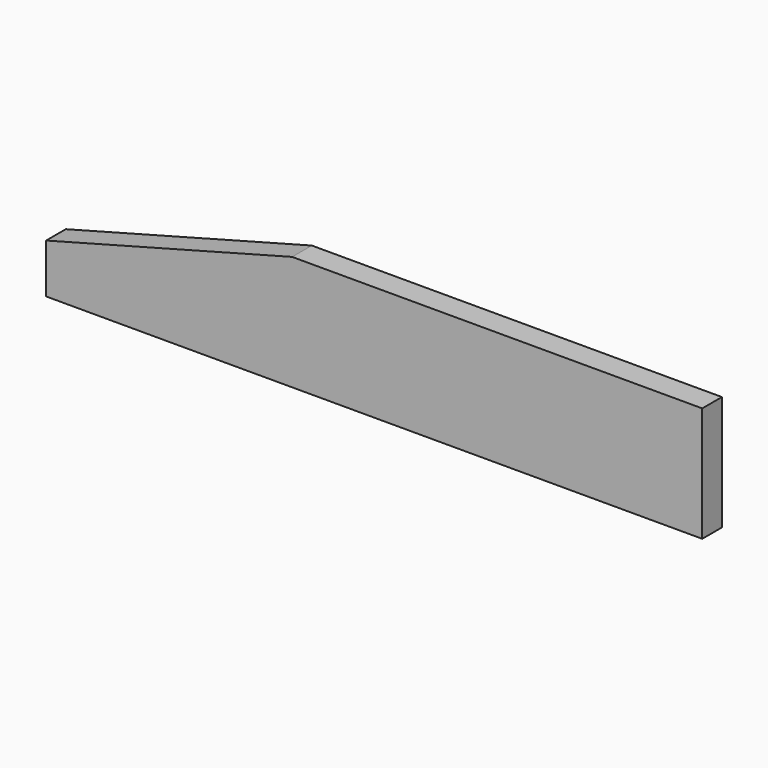
from build123d import *

# Parameters (mm, degrees)
F1_DEPTH = 19.05
F3_DEPTH = 25.4


with BuildPart() as f1:
    # F0 (on Front) → F1 (new body)
    with BuildSketch(Plane.XZ):
        Polygon((0, 44.45), (0, 0), (508, 0), (508, 88.9), (190.5, 88.9), align=None)
        Polygon((0, 88.9), (0, 44.45), (190.5, 88.9), align=None)
    extrude(amount=F1_DEPTH)

    # F2 (on face) → F3 (cut)
    with BuildSketch(Plane.XZ.offset(19.05)):
        Polygon((0, 38.1), (190.5, 88.9), (0, 88.9), align=None)
    extrude(amount=-F3_DEPTH, mode=Mode.SUBTRACT)


solid = f1.part
